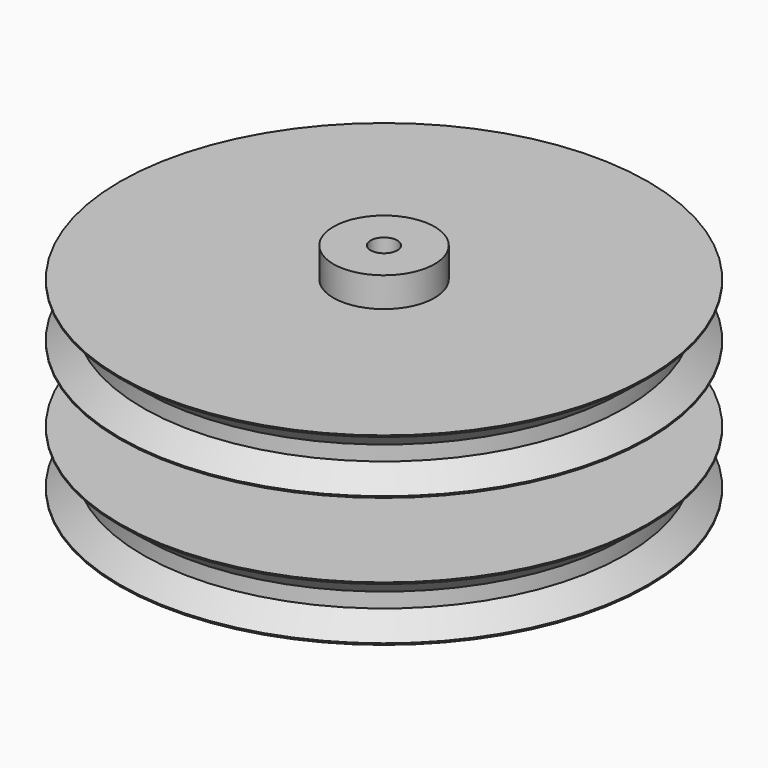
from build123d import *

# Parameters (mm, degrees)
SKETCH001_R   = 3.4
SKETCH001_R_2 = 0.9
PAD_DEPTH     = 2


with BuildPart() as part:
    # Sketch → Revolution (revolve)
    with BuildSketch(Plane.XZ):
        Polygon((0.9, 12.4), (0.9, 0), (17.75, 0), (17.75, 0.1), (16.2, 1.35), (16.2, 2.35), (17.75, 3.6), (17.75, 3.7), (3.4, 3.7), (3.4, 8.7), (17.75, 8.7), (17.75, 8.8), (16.2, 10.05), (16.2, 11.05), (17.75, 12.3), (17.75, 12.4), align=None)
    revolve(axis=Axis((0, 0, 0), (0, 0, 1)))

    # Sketch001 (on Face1 of Revolution) → Pad (new body)
    with BuildSketch(Plane(origin=(0, 0, 12.4), x_dir=(-1, 0, 0), z_dir=(0, 0, 1))):
        Circle(SKETCH001_R)
        Circle(SKETCH001_R_2, mode=Mode.SUBTRACT)
    extrude(amount=PAD_DEPTH)


solid = part.part
